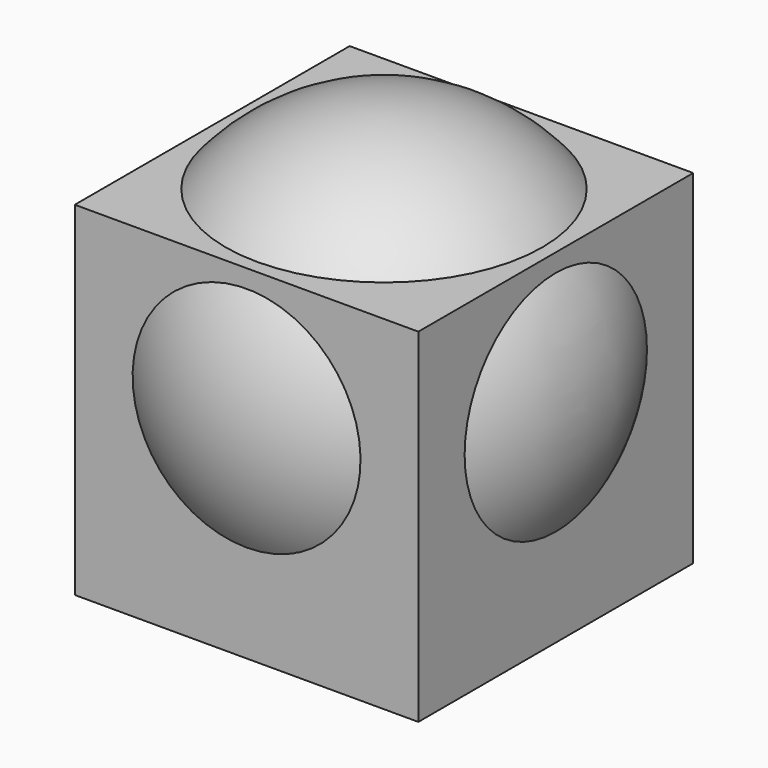
from build123d import *

# Parameters (mm, degrees)
F2_W     = 20
F2_H     = 20
F3_DEPTH = 10
F4_T     = -1


with BuildPart() as f1:
    # F0 (on Front) → F1 (revolve)
    with BuildSketch(Plane.XZ):
        with BuildLine():
            ThreePointArc((0, -12), (12, 0), (0, 12))
            Line((0, 12), (0, -12))
        make_face()
    revolve(axis=Axis((0, 0, 0), (0, 0, -1)))


with BuildPart() as f3:
    # F2 (on Front) → F3 (new body, symmetric)
    with BuildSketch(Plane.XZ):
        with Locations((0, -2.3152874783)):
            Rectangle(F2_W, F2_H)
    extrude(amount=F3_DEPTH, both=True)

    # F4 (hollow: no face is removed)
    offset(amount=F4_T, mode=Mode.SUBTRACT)

    # F5: cut F1
    add(f1.part, mode=Mode.SUBTRACT)


solid = Compound([f1.part, f3.part])
